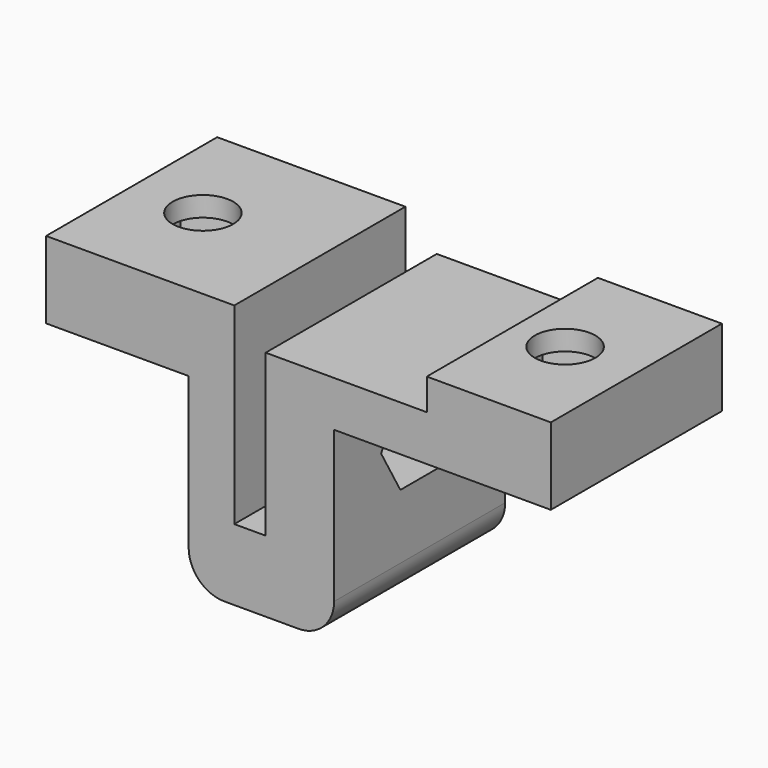
from build123d import *

# Parameters (mm, degrees)
F1_DEPTH  = 7.5
F2_W      = 8.7
F2_H      = 15
F2_W_2    = 13.2
F3_DEPTH  = 2.2
F4_R      = 2.125
F5_DEPTH  = 25
F7_DEPTH  = 4
F8_R      = 2.125
F9_DEPTH  = 25
F11_DEPTH = 4


with BuildPart() as f1:
    # F0 (on Front) → F1 (new body, symmetric)
    with BuildSketch(Plane.XZ):
        with BuildLine():
            Line((-2.2, 0), (-15.4, 0))
            Line((-15.4, 0), (-15.4, -3.2))
            Line((-15.4, -3.2), (-5.4, -3.2))
            Line((-5.4, -3.2), (-5.4, -13.8))
            ThreePointArc((-5.4, -13.8), (-4.667767, -15.567767), (-2.9, -16.3))
            Line((-2.9, -16.3), (2.3, -16.3))
            ThreePointArc((2.3, -16.3), (4.067767, -15.567767), (4.8, -13.8))
            Line((4.8, -13.8), (4.8, -3.2))
            Line((4.8, -3.2), (20, -3.2))
            Line((20, -3.2), (20, 0))
            Line((20, 0), (0, 0))
            Line((0, 0), (0, -11.3))
            Line((0, -11.3), (-2.2, -11.3))
            Line((-2.2, -11.3), (-2.2, 0))
        make_face()
    extrude(amount=F1_DEPTH, both=True)

    # F2 (on face) → F3 (join)
    with BuildSketch(Plane.XY):
        with Locations((15.65, 0)):
            Rectangle(F2_W, F2_H)
        with Locations((-8.8, 0)):
            Rectangle(F2_W_2, F2_H)
    extrude(amount=F3_DEPTH)

    # F4 (on face) → F5 (cut)
    with BuildSketch(Plane.XY.offset(2.2)):
        with Locations((-10.4, 0)):
            Circle(F4_R)
        with Locations((15, 0)):
            Circle(F4_R)
    extrude(amount=-F5_DEPTH, mode=Mode.SUBTRACT)

    # F6 (on face) → F7 (cut)
    with BuildSketch(Plane(origin=(0, 0, -3.2), x_dir=(1, 0, 0), z_dir=(0, 0, -1))):
        Polygon((-7.475, -1.68875), (-7.475, 1.68875), (-10.4, 3.377499), (-13.325, 1.68875), (-13.325, -1.68875), (-10.4, -3.377499), align=None)
        Polygon((17.925, -1.68875), (17.925, 1.68875), (15, 3.377499), (12.075, 1.68875), (12.075, -1.68875), (15, -3.377499), align=None)
    extrude(amount=-F7_DEPTH, mode=Mode.SUBTRACT)

    # F8 (on face) → F9 (cut)
    with BuildSketch(Plane.YZ.offset(4.8)):
        with Locations((0, -6.35)):
            Circle(F8_R)
    extrude(amount=-F9_DEPTH, mode=Mode.SUBTRACT)

    # F10 (on face) → F11 (cut)
    with BuildSketch(Plane.YZ.offset(4.8)):
        Polygon((-1.68875, -9.275), (1.68875, -9.275), (3.377499, -6.35), (1.68875, -3.425), (-1.68875, -3.425), (-3.377499, -6.35), align=None)
    extrude(amount=-F11_DEPTH, mode=Mode.SUBTRACT)


solid = f1.part
